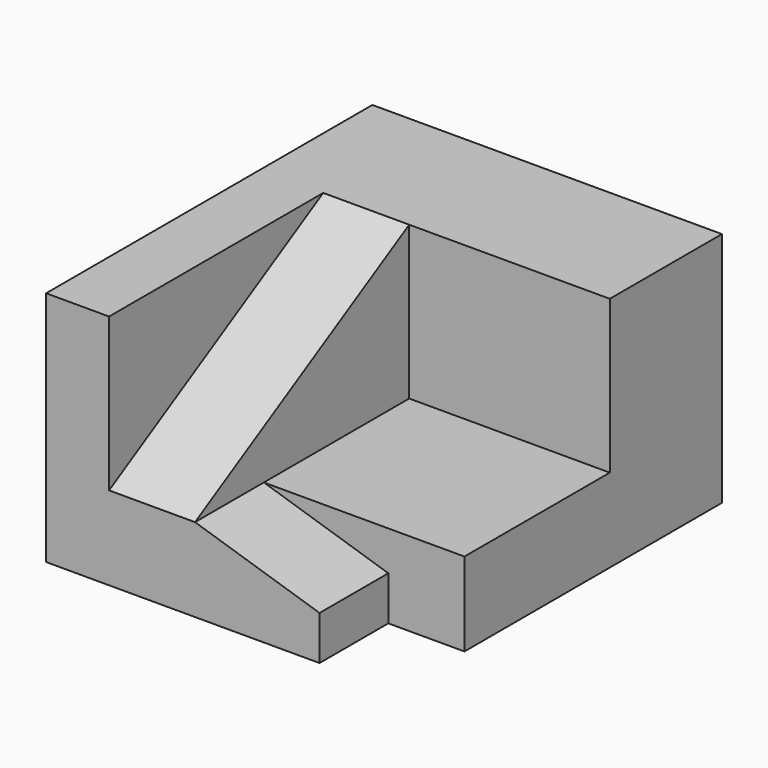
from build123d import *

# Parameters (mm, degrees)
F1_DEPTH = 34.4
F2_W     = 83.3284929395
F2_H     = 77.8343044221
F3_DEPTH = 24.3
F5_DEPTH = 25
F7_DEPTH = 25


with BuildPart() as f1:
    # F0 (on Top) → F1 (new body, symmetric)
    with BuildSketch(Plane.XY):
        Polygon((50.8212260902, 18.5428783298), (50.8212260902, 59.2914260924), (-50.8212260902, 59.2914260924), (-50.8212260902, -59.2914260924), (-32.5072668493, -59.2914260924), (-32.5072668493, 18.5428783298), align=None)
    extrude(amount=F1_DEPTH, both=True)

    # F2 (on face) → F3 (join)
    with BuildSketch(Plane(origin=(0, 0, -34.4), x_dir=(1, 0, 0), z_dir=(0, 0, -1))):
        with Locations((9.1569796205, 20.3742738813)):
            Rectangle(F2_W, F2_H)
    extrude(amount=-F3_DEPTH)

    # F4 (on face) → F5 (join)
    with BuildSketch(Plane.YZ.offset(-32.5072668493)):
        Polygon((18.5428783298, 34.4), (-59.2914260924, -10.1), (18.5428783298, -10.1), align=None)
    extrude(amount=F5_DEPTH)

    # F6 (on face) → F7 (cut)
    with BuildSketch(Plane.XZ.offset(59.2914260924)):
        Polygon((50.8212260902, -10.1), (-7.5072668493, -10.1), (28.6875050515, -21.577918902), (28.6875050515, -34.4), (50.8212260902, -34.4), align=None)
    extrude(amount=-F7_DEPTH, mode=Mode.SUBTRACT)


solid = f1.part
